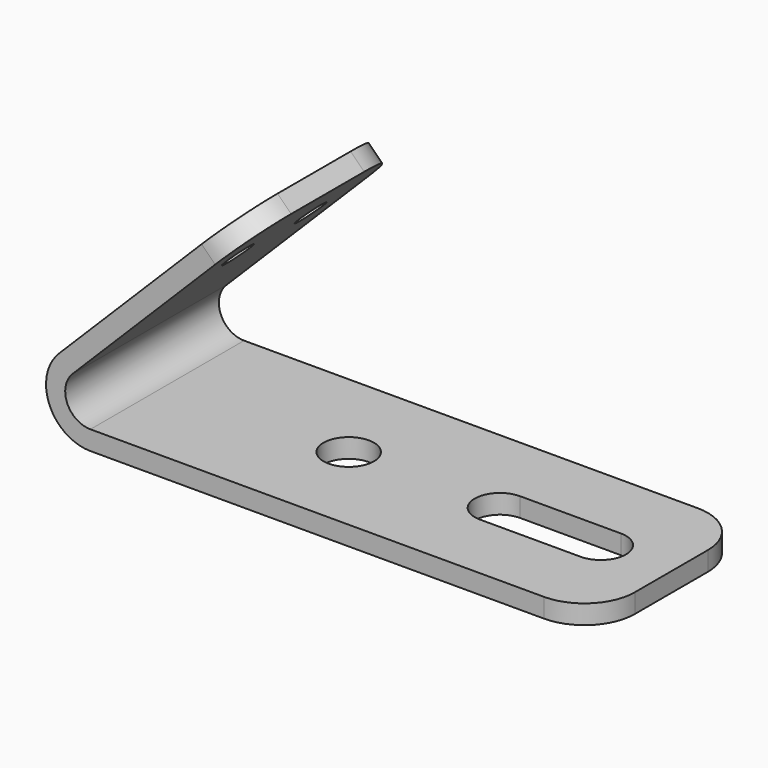
from build123d import *

# Parameters (mm, degrees)
F1_DEPTH = 24.1935
F2_R     = 3.81
F3_DEPTH = 4.826
F4_R     = 6.35
F5_DEPTH = 4.826
F6_R     = 12.7


with BuildPart() as f1:
    # F0 (on Front) → F1 (new body, symmetric)
    with BuildSketch(Plane.XZ):
        with BuildLine():
            Line((-5.3088474552, 60.5674086659), (-8.7213447812, 63.9799059919))
            Line((-8.7213447812, 63.9799059919), (-53.6226253865, 19.0786253865))
            ThreePointArc((-53.6226253865, 19.0786253865), (-56.0452776553, 6.8991299599), (-45.72, 0))
            Line((-45.72, 0), (81.28, 0))
            Line((81.28, 0), (81.28, 4.826))
            Line((81.28, 4.826), (-45.72, 4.826))
            ThreePointArc((-45.72, 4.826), (-51.5866350314, 8.7459602045), (-50.2101280605, 15.6661280605))
            Line((-50.2101280605, 15.6661280605), (-5.3088474552, 60.5674086659))
        make_face()
    extrude(amount=F1_DEPTH, both=True)

    # F2 (on face) → F3 (cut, through all)
    with BuildSketch(Plane(origin=(-36.3506253865, 0, 36.3506253865), x_dir=(0, -1, 0), z_dir=(-0.7071067812, 0, 0.7071067812))):
        with Locations((-11.43, 20.0237033507)):
            Circle(F2_R)
        with Locations((11.43, 20.0237033507)):
            Circle(F2_R)
    extrude(amount=-F3_DEPTH, mode=Mode.SUBTRACT)

    # F4 (on face) → F5 (cut, through all)
    with BuildSketch(Plane.XY.offset(4.826)):
        Circle(F4_R)
        with BuildLine():
            Line((63.5, 6.35), (38.1, 6.35))
            ThreePointArc((38.1, 6.35), (31.75, 0), (38.1, -6.35))
            Line((38.1, -6.35), (63.5, -6.35))
            ThreePointArc((63.5, -6.35), (69.85, 0), (63.5, 6.35))
        make_face()
    extrude(amount=-F5_DEPTH, mode=Mode.SUBTRACT)

    # F6
    f6_edges = [f1.edges().sort_by_distance(p)[0] for p in [
        (-7.015096, -24.1935, 62.273657),
        (-7.015096, 24.1935, 62.273657),
        (81.28, 24.1935, 2.413),
        (81.28, -24.1935, 2.413),
    ]]
    fillet(f6_edges, radius=F6_R)


solid = f1.part
